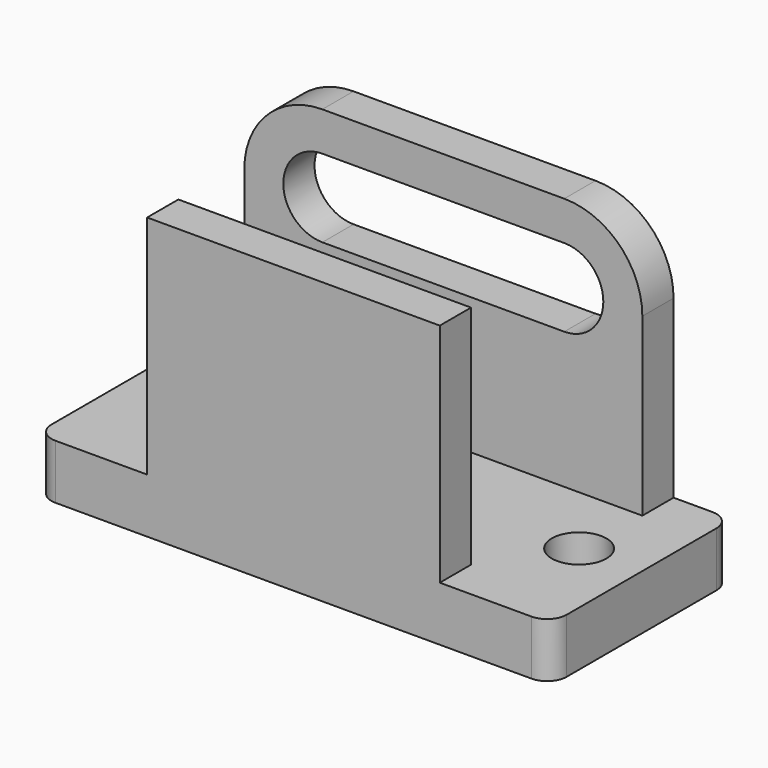
from build123d import *

# Parameters (mm, degrees)
F1_DEPTH  = 14
F2_W      = 102
F2_H      = 10
F3_DEPTH  = 65
F4_R      = 20
F6_DEPTH  = 10
F7_R      = 7
F8_DEPTH  = 14
F9_R      = 7
F10_DEPTH = 14
F12_DEPTH = 58


with BuildPart() as f1:
    # F0 (on Top) → F1 (new body)
    with BuildSketch(Plane.XY):
        with BuildLine():
            ThreePointArc((-78.572579, -32.704081), (-77.108113, -36.239615), (-73.572579, -37.704081))
            Line((-73.572579, -37.704081), (48.427421, -37.704081))
            ThreePointArc((48.427421, -37.704081), (51.962955, -36.239615), (53.427421, -32.704081))
            Line((53.427421, -32.704081), (53.427421, 15.295919))
            ThreePointArc((53.427421, 15.295919), (51.962955, 18.831453), (48.427421, 20.295919))
            Line((48.427421, 20.295919), (-73.572579, 20.295919))
            ThreePointArc((-73.572579, 20.295919), (-77.108113, 18.831453), (-78.572579, 15.295919))
            Line((-78.572579, 15.295919), (-78.572579, -32.704081))
        make_face()
    extrude(amount=F1_DEPTH)

    # F2 (on face) → F3 (join)
    with BuildSketch(Plane.XY.offset(14)):
        with Locations((-12.572579, 15.295919)):
            Rectangle(F2_W, F2_H)
    extrude(amount=F3_DEPTH)

    # F4
    f4_edges = [f1.edges().sort_by_distance(p)[0] for p in [
        (-63.572579, 15.295919, 79),
        (38.427421, 15.295919, 79),
    ]]
    fillet(f4_edges, radius=F4_R)

    # F5 (on face) → F6 (cut)
    with BuildSketch(Plane.XZ.offset(-10.295919)):
        with BuildLine():
            Line((18.427421, 69), (-43.572579, 69))
            ThreePointArc((-43.572579, 69), (-53.572579, 59), (-43.572579, 49))
            Line((-43.572579, 49), (18.427421, 49))
            ThreePointArc((18.427421, 49), (28.427421, 59), (18.427421, 69))
        make_face()
    extrude(amount=-F6_DEPTH, mode=Mode.SUBTRACT)

    # F7 (on face) → F8 (cut)
    with BuildSketch(Plane.XY.offset(14)):
        with Locations((-62.572579, -8.704081)):
            Circle(F7_R)
    extrude(amount=-F8_DEPTH, mode=Mode.SUBTRACT)

    # F9 (on face) → F10 (cut)
    with BuildSketch(Plane.XY.offset(14)):
        with Locations((37.427421, -8.704081)):
            Circle(F9_R)
    extrude(amount=-F10_DEPTH, mode=Mode.SUBTRACT)

    # F11 (on face) → F12 (join)
    with BuildSketch(Plane.XY.offset(14)):
        Polygon((-50.072579, -37.704081), (-12.572579, -37.704081), (24.927421, -37.704081), (24.927421, -27.704081), (-50.072579, -27.704081), align=None)
    extrude(amount=F12_DEPTH)


solid = f1.part
